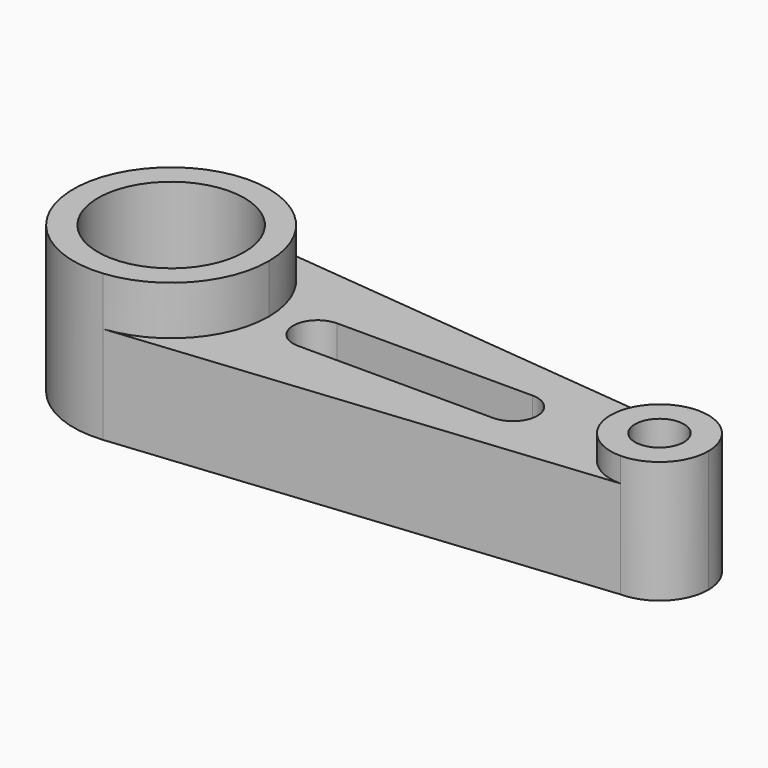
from build123d import *

# Parameters (mm, degrees)
F0_R     = 19.05
F1_DEPTH = 38.1
F0_R_2   = 6.35
F2_DEPTH = 31.75
F3_DEPTH = 25.4


with BuildPart() as f1:
    # F0 (on Top) → F1 (new body)
    with BuildSketch(Plane.XY):
        with BuildLine():
            ThreePointArc((2.552861, -25.271385), (18.841479, -17.034044), (25.4, 0))
            ThreePointArc((25.4, 0), (18.841479, 17.034044), (2.552861, 25.271385))
            ThreePointArc((2.552861, 25.271385), (-25.4, 0), (2.552861, -25.271385))
        make_face()
        Circle(F0_R, mode=Mode.SUBTRACT)
    extrude(amount=F1_DEPTH)



with BuildPart() as f2:
    # F0 (on Top) → F2 (new body)
    with BuildSketch(Plane.XY):
        with BuildLine():
            ThreePointArc((139.7, 0), (135.980256, 8.980256), (127, 12.7))
            ThreePointArc((127, 12.7), (114.3, 0), (127, -12.7))
            ThreePointArc((127, -12.7), (135.980256, -8.980256), (139.7, 0))
        make_face()
        with Locations((127, 0)):
            Circle(F0_R_2, mode=Mode.SUBTRACT)
    extrude(amount=F2_DEPTH)


with BuildPart() as f1_1:
    add(f1.part)

    add(f2.part)  # F3 merges F2
    # F0 (on Top) → F3 (join)
    with BuildSketch(Plane.XY):
        with BuildLine():
            ThreePointArc((2.552861, 25.271385), (18.841479, 17.034044), (25.4, 0))
            ThreePointArc((25.4, 0), (18.841479, -17.034044), (2.552861, -25.271385))
            Line((2.552861, -25.271385), (127, -12.7))
            ThreePointArc((127, -12.7), (114.3, 0), (127, 12.7))
            Line((127, 12.7), (2.552861, 25.271385))
        make_face()
        with BuildLine():
            ThreePointArc((88.9, 6.35), (95.25, 0), (88.9, -6.35))
            Line((88.9, -6.35), (38.1, -6.35))
            ThreePointArc((38.1, -6.35), (31.75, 0), (38.1, 6.35))
            Line((38.1, 6.35), (88.9, 6.35))
        make_face(mode=Mode.SUBTRACT)
    extrude(amount=F3_DEPTH)


solid = f1_1.part
